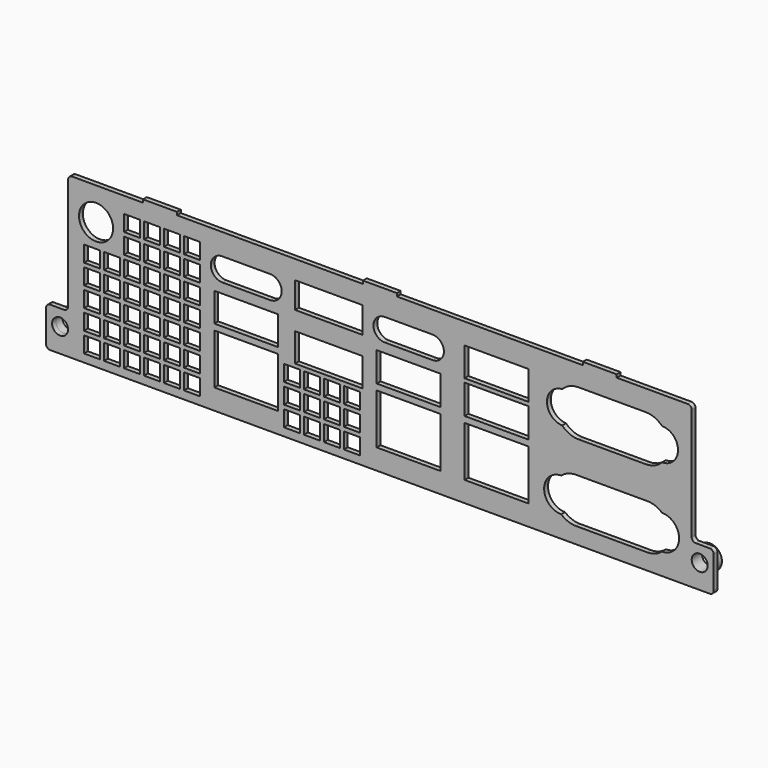
from build123d import *

# Parameters (mm, degrees)
SKETCH003_R                        = 3
EXTRUDE002_DEPTH                   = 2
EXTRUDE001_DEPTH                   = 1.2
SKETCH002_R                        = 2
POCKET_DEPTH                       = 2.5
SKETCH_R                           = 4.26
SKETCH_W                           = 16
SKETCH_H                           = 7.23
SKETCH_H_2                         = 7.36
SKETCH_H_3                         = 12.56
SKETCH_W_2                         = 16.95
SKETCH_H_4                         = 6.55
SKETCH_H_5                         = 7.14
POCKET001_DEPTH                    = 2.5
FILLET_R                           = 1
SKETCH004_W                        = 4
SKETCH004_H                        = 4
POCKET002_DEPTH                    = 347.060288
SKETCH004_LINEARPATTERN_2_W        = 4
SKETCH004_LINEARPATTERN_2_H        = 4
POCKET002_LINEARPATTERN_2_DEPTH    = 347.060288
SKETCH004_LINEARPATTERN_3_W        = 4
SKETCH004_LINEARPATTERN_3_H        = 4
POCKET002_LINEARPATTERN_3_DEPTH    = 347.060288
SKETCH004_LINEARPATTERN_4_W        = 4
SKETCH004_LINEARPATTERN_4_H        = 4
POCKET002_LINEARPATTERN_4_DEPTH    = 347.060288
SKETCH004_LINEARPATTERN_5_W        = 4
SKETCH004_LINEARPATTERN_5_H        = 4
POCKET002_LINEARPATTERN_5_DEPTH    = 347.060288
SKETCH004_LINEARPATTERN_6_W        = 4
SKETCH004_LINEARPATTERN_6_H        = 4
POCKET002_LINEARPATTERN_6_DEPTH    = 347.060288
LINEARPATTERN001_COUNT             = 5
LINEARPATTERN001_PITCH             = 5
SKETCH005_W                        = 4
SKETCH005_H                        = 4
POCKET003_DEPTH                    = 347.060288
SKETCH005_LINEARPATTERN002_2_W     = 4
SKETCH005_LINEARPATTERN002_2_H     = 4
POCKET003_LINEARPATTERN002_2_DEPTH = 347.060288
SKETCH005_LINEARPATTERN002_3_W     = 4
SKETCH005_LINEARPATTERN002_3_H     = 4
POCKET003_LINEARPATTERN002_3_DEPTH = 347.060288
SKETCH005_LINEARPATTERN002_4_W     = 4
SKETCH005_LINEARPATTERN002_4_H     = 4
POCKET003_LINEARPATTERN002_4_DEPTH = 347.060288
LINEARPATTERN003_COUNT             = 3
LINEARPATTERN003_PITCH             = 5
SKETCH006_W                        = 4
SKETCH006_H                        = 4
POCKET004_DEPTH                    = 347.060288
SKETCH006_LINEARPATTERN004_2_W     = 4
SKETCH006_LINEARPATTERN004_2_H     = 4
POCKET004_LINEARPATTERN004_2_DEPTH = 347.060288
SKETCH006_LINEARPATTERN004_3_W     = 4
SKETCH006_LINEARPATTERN004_3_H     = 4
POCKET004_LINEARPATTERN004_3_DEPTH = 347.060288
SKETCH006_LINEARPATTERN004_4_W     = 4
SKETCH006_LINEARPATTERN004_4_H     = 4
POCKET004_LINEARPATTERN004_4_DEPTH = 347.060288
LINEARPATTERN005_COUNT             = 2
LINEARPATTERN005_PITCH             = 5


with BuildPart() as extrudedscrewholes:
    # Sketch003 → Extrude002 (new body)
    with BuildSketch(Plane.XZ):
        with Locations((-80, 6)):
            Circle(SKETCH003_R)
        with Locations((80, 6)):
            Circle(SKETCH003_R)
    extrude(amount=-EXTRUDE002_DEPTH)


with BuildPart() as body001:
    # Sketch001 → Extrude001 (new body)
    with BuildSketch(Plane.XZ):
        Polygon((-83.5, 0), (83.5, 0), (83.5, 10), (78, 10), (78, 40), (59.25, 40), (59.25, 40.75), (50.75, 40.75), (50.75, 40), (4.25, 40), (4.25, 40.75), (-4.25, 40.75), (-4.25, 40), (-50.75, 40), (-50.75, 40.75), (-59.25, 40.75), (-59.25, 40), (-78, 40), (-78, 10), (-83.5, 10), align=None)
    extrude(amount=EXTRUDE001_DEPTH)

    # Fusion: union ExtrudedScrewHoles
    add(extrudedscrewholes.part)

    # Sketch002 → Pocket (cut, symmetric)
    with BuildSketch(Plane.XZ):
        with Locations((-80, 6)):
            Circle(SKETCH002_R)
        with Locations((80, 6)):
            Circle(SKETCH002_R)
    extrude(amount=POCKET_DEPTH, both=True, mode=Mode.SUBTRACT)

    # Sketch (on Fusion) → Pocket001 (cut, symmetric)
    with BuildSketch(Plane(origin=(78, 0, 0), x_dir=(1, 0, 0), z_dir=(0, -1, 0))):
        with Locations((-149, 31.9)):
            Circle(SKETCH_R)
        with BuildLine():
            ThreePointArc((-32.41, 33.04), (-36.205256, 29.040375), (-32.400275, 25.05))
            ThreePointArc((-32.400275, 25.05), (-30.524952, 23.770673), (-28.3, 23.32))
            Line((-28.3, 23.32), (-11.52, 23.32))
            ThreePointArc((-11.52, 23.32), (-9.295715, 23.769332), (-7.420275, 25.046857))
            ThreePointArc((-7.420275, 25.046857), (-3.420277, 29.04379), (-7.414141, 33.046852))
            ThreePointArc((-7.414141, 33.046852), (-9.290507, 34.328472), (-11.517483, 34.779999))
            Line((-28.297483, 34.779999), (-11.517483, 34.779999))
            ThreePointArc((-28.297483, 34.779999), (-30.530216, 34.327101), (-32.41, 33.04))
        make_face()
        with BuildLine():
            ThreePointArc((-32.64, 13.943495), (-36.910004, 9.673491), (-32.64, 5.403487))
            ThreePointArc((-32.64, 5.403487), (-30.918665, 4.384505), (-28.95, 4.03))
            Line((-28.95, 4.03), (-11.114015, 4.03))
            ThreePointArc((-11.114015, 4.03), (-9.142862, 4.385434), (-7.42, 5.406965))
            ThreePointArc((-7.42, 5.406965), (-3.149998, 9.680988), (-7.428039, 13.946965))
            ThreePointArc((-7.428039, 13.946965), (-9.141274, 14.960956), (-11.1, 15.316965))
            Line((-28.95, 15.316982), (-11.1, 15.316965))
            ThreePointArc((-28.95, 15.316982), (-30.918665, 14.962477), (-32.64, 13.943495))
        make_face()
        with Locations((-48.8, 31.125)):
            Rectangle(SKETCH_W, SKETCH_H)
        with Locations((-48.8, 22.87)):
            Rectangle(SKETCH_W, SKETCH_H_2)
        with Locations((-48.8, 11.4)):
            Rectangle(SKETCH_W, SKETCH_H_3)
        with BuildLine():
            ThreePointArc((-105.43, 28.9), (-102.56, 31.77), (-105.43, 34.64))
            Line((-105.43, 34.64), (-117.43, 34.64))
            ThreePointArc((-117.43, 34.64), (-120.3, 31.77), (-117.43, 28.9))
            Line((-105.43, 28.9), (-117.43, 28.9))
        make_face()
        with BuildLine():
            ThreePointArc((-76.8, 34.52), (-79.61, 31.71), (-76.8, 28.9))
            Line((-76.8, 28.9), (-64.8, 28.9))
            ThreePointArc((-64.8, 28.9), (-61.99, 31.71), (-64.8, 34.52))
            Line((-76.8, 34.52), (-64.8, 34.52))
        make_face()
        with Locations((-111.43, 22.805)):
            Rectangle(SKETCH_W, SKETCH_H)
        with Locations((-111.43, 11.4)):
            Rectangle(SKETCH_W, SKETCH_H_3)
        with Locations((-90.775, 32.035)):
            Rectangle(SKETCH_W_2, SKETCH_H_4)
        with Locations((-90.775, 20.52)):
            Rectangle(SKETCH_W_2, SKETCH_H_5)
        with Locations((-70.8, 22.87)):
            Rectangle(SKETCH_W, SKETCH_H_2)
        with Locations((-70.8, 11.4)):
            Rectangle(SKETCH_W, SKETCH_H_3)
    extrude(amount=POCKET001_DEPTH, both=True, mode=Mode.SUBTRACT)

    # Fillet
    fillet_edges = [body001.edges().sort_by_distance(p)[0] for p in [
        (-83.5, -0.6, 0),
        (-83.5, -0.6, 10),
        (-78, -0.6, 10),
        (-78, -0.6, 40),
        (78, -0.6, 40),
        (83.5, -0.6, 10),
        (83.5, -0.6, 0),
        (78, -0.6, 10),
    ]]
    fillet(fillet_edges, radius=FILLET_R)

    # Sketch004 (on Face5 of Fillet) → Pocket002 (cut, through all)
    with BuildSketch(Plane.XZ.offset(1.2)):
        with Locations((-47, 4)):
            Rectangle(SKETCH004_W, SKETCH004_H)
    pocket002 = extrude(amount=-POCKET002_DEPTH, mode=Mode.SUBTRACT)

    # Sketch004 LinearPattern 2 → Pocket002 LinearPattern 2 (cut, through all)
    with BuildSketch(Plane(origin=(-5, -1.2, 0), x_dir=(1, 0, 0), z_dir=(0, -1, 0))):
        with Locations((-47, 4)):
            Rectangle(SKETCH004_LINEARPATTERN_2_W, SKETCH004_LINEARPATTERN_2_H)
    pocket002_linearpattern_2 = extrude(amount=-POCKET002_LINEARPATTERN_2_DEPTH, mode=Mode.SUBTRACT)

    # Sketch004 LinearPattern 3 → Pocket002 LinearPattern 3 (cut, through all)
    with BuildSketch(Plane(origin=(-10, -1.2, 0), x_dir=(1, 0, 0), z_dir=(0, -1, 0))):
        with Locations((-47, 4)):
            Rectangle(SKETCH004_LINEARPATTERN_3_W, SKETCH004_LINEARPATTERN_3_H)
    pocket002_linearpattern_3 = extrude(amount=-POCKET002_LINEARPATTERN_3_DEPTH, mode=Mode.SUBTRACT)

    # Sketch004 LinearPattern 4 → Pocket002 LinearPattern 4 (cut, through all)
    with BuildSketch(Plane(origin=(-15, -1.2, 0), x_dir=(1, 0, 0), z_dir=(0, -1, 0))):
        with Locations((-47, 4)):
            Rectangle(SKETCH004_LINEARPATTERN_4_W, SKETCH004_LINEARPATTERN_4_H)
    pocket002_linearpattern_4 = extrude(amount=-POCKET002_LINEARPATTERN_4_DEPTH, mode=Mode.SUBTRACT)

    # Sketch004 LinearPattern 5 → Pocket002 LinearPattern 5 (cut, through all)
    with BuildSketch(Plane(origin=(-20, -1.2, 0), x_dir=(1, 0, 0), z_dir=(0, -1, 0))):
        with Locations((-47, 4)):
            Rectangle(SKETCH004_LINEARPATTERN_5_W, SKETCH004_LINEARPATTERN_5_H)
    pocket002_linearpattern_5 = extrude(amount=-POCKET002_LINEARPATTERN_5_DEPTH, mode=Mode.SUBTRACT)

    # Sketch004 LinearPattern 6 → Pocket002 LinearPattern 6 (cut, through all)
    with BuildSketch(Plane(origin=(-25, -1.2, 0), x_dir=(1, 0, 0), z_dir=(0, -1, 0))):
        with Locations((-47, 4)):
            Rectangle(SKETCH004_LINEARPATTERN_6_W, SKETCH004_LINEARPATTERN_6_H)
    pocket002_linearpattern_6 = extrude(amount=-POCKET002_LINEARPATTERN_6_DEPTH, mode=Mode.SUBTRACT)

    # LinearPattern001: Pocket002, Pocket002 LinearPattern 2, Pocket002 LinearPattern 3, Pocket002 LinearPattern 4, Pocket002 LinearPattern 5, Pocket002 LinearPattern 6 ×5
    with Locations(*[(0, 0, i * LINEARPATTERN001_PITCH) for i in range(1, LINEARPATTERN001_COUNT)]):
        add(pocket002, mode=Mode.SUBTRACT)
        add(pocket002_linearpattern_2, mode=Mode.SUBTRACT)
        add(pocket002_linearpattern_3, mode=Mode.SUBTRACT)
        add(pocket002_linearpattern_4, mode=Mode.SUBTRACT)
        add(pocket002_linearpattern_5, mode=Mode.SUBTRACT)
        add(pocket002_linearpattern_6, mode=Mode.SUBTRACT)

    # Sketch005 (on Face5 of MultiTransform) → Pocket003 (cut, through all)
    with BuildSketch(Plane.XZ.offset(1.2)):
        with Locations((-22, 4)):
            Rectangle(SKETCH005_W, SKETCH005_H)
    pocket003 = extrude(amount=-POCKET003_DEPTH, mode=Mode.SUBTRACT)

    # Sketch005 LinearPattern002 2 → Pocket003 LinearPattern002 2 (cut, through all)
    with BuildSketch(Plane(origin=(5, -1.2, 0), x_dir=(1, 0, 0), z_dir=(0, -1, 0))):
        with Locations((-22, 4)):
            Rectangle(SKETCH005_LINEARPATTERN002_2_W, SKETCH005_LINEARPATTERN002_2_H)
    pocket003_linearpattern002_2 = extrude(amount=-POCKET003_LINEARPATTERN002_2_DEPTH, mode=Mode.SUBTRACT)

    # Sketch005 LinearPattern002 3 → Pocket003 LinearPattern002 3 (cut, through all)
    with BuildSketch(Plane(origin=(10, -1.2, 0), x_dir=(1, 0, 0), z_dir=(0, -1, 0))):
        with Locations((-22, 4)):
            Rectangle(SKETCH005_LINEARPATTERN002_3_W, SKETCH005_LINEARPATTERN002_3_H)
    pocket003_linearpattern002_3 = extrude(amount=-POCKET003_LINEARPATTERN002_3_DEPTH, mode=Mode.SUBTRACT)

    # Sketch005 LinearPattern002 4 → Pocket003 LinearPattern002 4 (cut, through all)
    with BuildSketch(Plane(origin=(15, -1.2, 0), x_dir=(1, 0, 0), z_dir=(0, -1, 0))):
        with Locations((-22, 4)):
            Rectangle(SKETCH005_LINEARPATTERN002_4_W, SKETCH005_LINEARPATTERN002_4_H)
    pocket003_linearpattern002_4 = extrude(amount=-POCKET003_LINEARPATTERN002_4_DEPTH, mode=Mode.SUBTRACT)

    # LinearPattern003: Pocket003, Pocket003 LinearPattern002 2, Pocket003 LinearPattern002 3, Pocket003 LinearPattern002 4 ×3
    with Locations(*[(0, 0, i * LINEARPATTERN003_PITCH) for i in range(1, LINEARPATTERN003_COUNT)]):
        add(pocket003, mode=Mode.SUBTRACT)
        add(pocket003_linearpattern002_2, mode=Mode.SUBTRACT)
        add(pocket003_linearpattern002_3, mode=Mode.SUBTRACT)
        add(pocket003_linearpattern002_4, mode=Mode.SUBTRACT)

    # Sketch006 (on Face5 of MultiTransform001) → Pocket004 (cut, through all)
    with BuildSketch(Plane.XZ.offset(1.2)):
        with Locations((-47, 29)):
            Rectangle(SKETCH006_W, SKETCH006_H)
    pocket004 = extrude(amount=-POCKET004_DEPTH, mode=Mode.SUBTRACT)

    # Sketch006 LinearPattern004 2 → Pocket004 LinearPattern004 2 (cut, through all)
    with BuildSketch(Plane(origin=(-5, -1.2, 0), x_dir=(1, 0, 0), z_dir=(0, -1, 0))):
        with Locations((-47, 29)):
            Rectangle(SKETCH006_LINEARPATTERN004_2_W, SKETCH006_LINEARPATTERN004_2_H)
    pocket004_linearpattern004_2 = extrude(amount=-POCKET004_LINEARPATTERN004_2_DEPTH, mode=Mode.SUBTRACT)

    # Sketch006 LinearPattern004 3 → Pocket004 LinearPattern004 3 (cut, through all)
    with BuildSketch(Plane(origin=(-10, -1.2, 0), x_dir=(1, 0, 0), z_dir=(0, -1, 0))):
        with Locations((-47, 29)):
            Rectangle(SKETCH006_LINEARPATTERN004_3_W, SKETCH006_LINEARPATTERN004_3_H)
    pocket004_linearpattern004_3 = extrude(amount=-POCKET004_LINEARPATTERN004_3_DEPTH, mode=Mode.SUBTRACT)

    # Sketch006 LinearPattern004 4 → Pocket004 LinearPattern004 4 (cut, through all)
    with BuildSketch(Plane(origin=(-15, -1.2, 0), x_dir=(1, 0, 0), z_dir=(0, -1, 0))):
        with Locations((-47, 29)):
            Rectangle(SKETCH006_LINEARPATTERN004_4_W, SKETCH006_LINEARPATTERN004_4_H)
    pocket004_linearpattern004_4 = extrude(amount=-POCKET004_LINEARPATTERN004_4_DEPTH, mode=Mode.SUBTRACT)

    # LinearPattern005: Pocket004, Pocket004 LinearPattern004 2, Pocket004 LinearPattern004 3, Pocket004 LinearPattern004 4 ×2
    with Locations(*[(0, 0, i * LINEARPATTERN005_PITCH) for i in range(1, LINEARPATTERN005_COUNT)]):
        add(pocket004, mode=Mode.SUBTRACT)
        add(pocket004_linearpattern004_2, mode=Mode.SUBTRACT)
        add(pocket004_linearpattern004_3, mode=Mode.SUBTRACT)
        add(pocket004_linearpattern004_4, mode=Mode.SUBTRACT)


solid = body001.part
